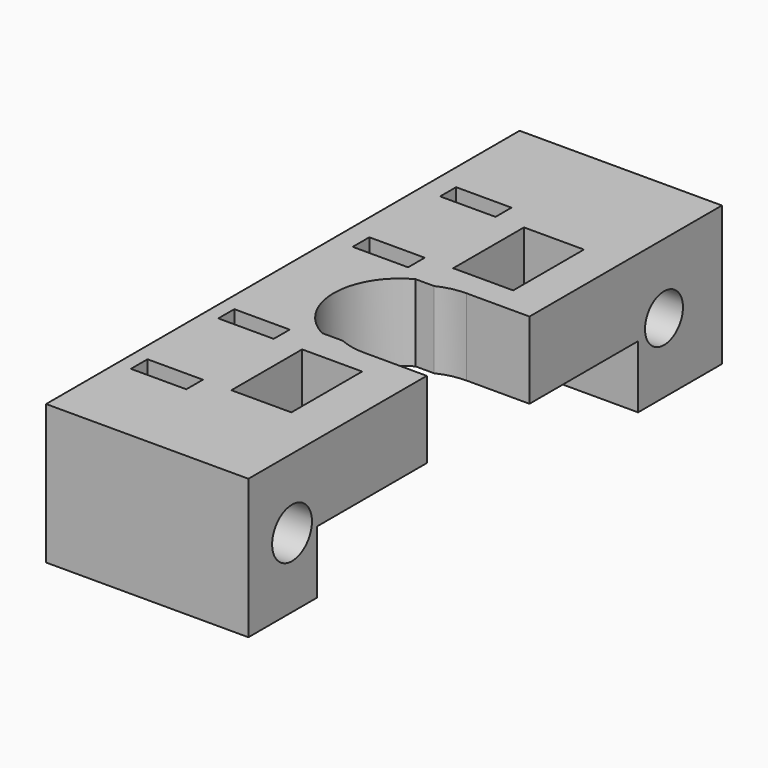
from build123d import *

# Parameters (mm, degrees)
F0_R      = 1.75
F1_DEPTH  = 10
F2_R      = 1.7838032989
F2_R_2    = 1.6991644828
F3_DEPTH  = 25
F5_W      = 23.6940248869
F5_H      = 47.8357747197
F6_DEPTH  = 25
F7_R      = 1.75
F8_DEPTH  = 10
F9_W      = 4.2999079451
F9_H      = 6.339606829
F9_W_2    = 3.9691450074
F9_H_2    = 1.433301717
F9_H_3    = 1.4884294942
F10_DEPTH = 25
F12_DEPTH = 10
F13_W     = 28.7822000682
F13_H     = 4.495148547
F14_DEPTH = 25
F16_DEPTH = 25
F17_R     = 3.5044645389
F17_R_2   = 3.3871652345
F18_DEPTH = 0.9


with BuildPart() as f1:
    # F0 (on Top) → F1 (new body)
    with BuildSketch(Plane.XY):
        with BuildLine():
            Line((8.2999998219, -21.1999956518), (8.2999998219, 21.2139172642))
            Line((8.2999998219, 21.2139172642), (-6.2000001781, 21.2139172642))
            Line((-6.2000001781, 21.2139172642), (-6.2000001781, 5.0756316632))
            Line((-6.2000001781, 5.0756316632), (-1.7000001781, 5.0756316632))
            ThreePointArc((-1.7000001781, 5.0756316632), (3.9999996856, -0.6243682004), (-1.7000001781, -6.3243680641))
            Line((-1.7000001781, -6.3243680641), (-6.2000001781, -6.3243680641))
            Line((-6.2000001781, -6.3243680641), (-6.2000001781, -21.1999956518))
            Line((-6.2000001781, -21.1999956518), (8.2999998219, -21.1999956518))
        make_face()
        with Locations((5.3999998219, -9.2503995063)):
            Circle(F0_R, mode=Mode.SUBTRACT)
    extrude(amount=F1_DEPTH)

    # F2 (on face) → F3 (cut)
    with BuildSketch(Plane.YZ.offset(8.2999998219)):
        with Locations((-17.2935956518, 5)):
            Circle(F2_R)
        with Locations((16.0253872642, 5)):
            Circle(F2_R_2)
    extrude(amount=-F3_DEPTH, mode=Mode.SUBTRACT)

    # F4: F1 across face


with BuildPart() as f1_1:
    add(f1.part)
    add(f1.part.mirror(Plane(origin=(-6.2000001781, 12.9732327122, 5), x_dir=(0, -1, 0), z_dir=(-1, 0, 0))))

    # F5 (on face) → F6 (cut)
    with BuildSketch(Plane.XY.offset(10)):
        with Locations((5.6470122654, 2.717891708)):
            Rectangle(F5_W, F5_H)
    extrude(amount=-F6_DEPTH, mode=Mode.SUBTRACT)

    # F7 (on face) → F8 (join, through all)
    with BuildSketch(Plane.XY.offset(10)):
        with Locations((-17.8000001781, -9.2503995063)):
            Circle(F7_R)
    extrude(amount=-F8_DEPTH)

    # F9 (on face) → F10 (cut)
    with BuildSketch(Plane.XY.offset(10)):
        with Locations((-11.4986333065, -10.246865917)):
            Rectangle(F9_W, F9_H)
        with Locations((-17.6728586666, -6.360411644)):
            Rectangle(F9_W_2, F9_H_2)
        with Locations((-17.6728586666, -14.1608840786)):
            Rectangle(F9_W_2, F9_H_3)
        with Locations((-11.0412049107, 9.0499585494)):
            Rectangle(F9_W, F9_H)
        with Locations((-17.2154302709, 12.9364128225)):
            Rectangle(F9_W_2, F9_H_2)
        with Locations((-17.2154302709, 5.1359403878)):
            Rectangle(F9_W_2, F9_H_3)
    extrude(amount=-F10_DEPTH, mode=Mode.SUBTRACT)

    # F11 (on face) → F12 (join, through all)
    with BuildSketch(Plane.XY.offset(10)):
        with BuildLine():
            Line((-10.7000001781, 3.9756317079), (-6.2000001781, 3.9756317079))
            Line((-6.2000001781, 3.9756317079), (-6.2000001781, 5.0756316632))
            Line((-6.2000001781, 5.0756316632), (-10.7000001781, 5.0756316632))
            ThreePointArc((-10.7000001781, 5.0756316632), (-16.4000000417, -0.6243682004), (-10.7000001781, -6.3243680641))
            Line((-10.7000001781, -6.3243680641), (-6.2000001781, -6.3243680641))
            Line((-6.2000001781, -6.3243680641), (-6.2000001781, -5.2243681088))
            Line((-6.2000001781, -5.2243681088), (-10.7000001781, -5.2243681088))
            ThreePointArc((-10.7000001781, -5.2243681088), (-15.3000000864, -0.6243682004), (-10.7000001781, 3.9756317079))
        make_face()
    extrude(amount=-F12_DEPTH)

    # F13 (on face) → F14 (cut)
    with BuildSketch(Plane(origin=(-20.7000001781, 0, 0), x_dir=(0, -1, 0), z_dir=(-1, 0, 0))):
        with Locations((0.6876317784, 2.2475742735)):
            Rectangle(F13_W, F13_H)
    extrude(amount=-F14_DEPTH, mode=Mode.SUBTRACT)

    # F15 (on face) → F16 (cut)
    with BuildSketch(Plane.XY.offset(10)):
        with BuildLine():
            Line((-14.0170669183, -4.8394002952), (-10.3995706886, -4.8394002952))
            Line((-10.3995706886, -4.8394002952), (-10.3995706886, 3.5300727468))
            Line((-10.3995706886, 3.5300727468), (-14.0170669183, 3.5300727468))
            ThreePointArc((-14.0170669183, 3.5300727468), (-16.5291727201, -0.6546637742), (-14.0170669183, -4.8394002952))
        make_face()
    extrude(amount=-F16_DEPTH, mode=Mode.SUBTRACT)

    # F17 (on face) → F18 (cut)
    with BuildSketch(Plane(origin=(-20.7000001781, 0, 0), x_dir=(0, -1, 0), z_dir=(-1, 0, 0))):
        with Locations((-16.0253872642, 5)):
            Circle(F17_R)
        with Locations((17.2935956518, 5)):
            Circle(F17_R_2)
    extrude(amount=-F18_DEPTH, mode=Mode.SUBTRACT)


solid = f1_1.part
